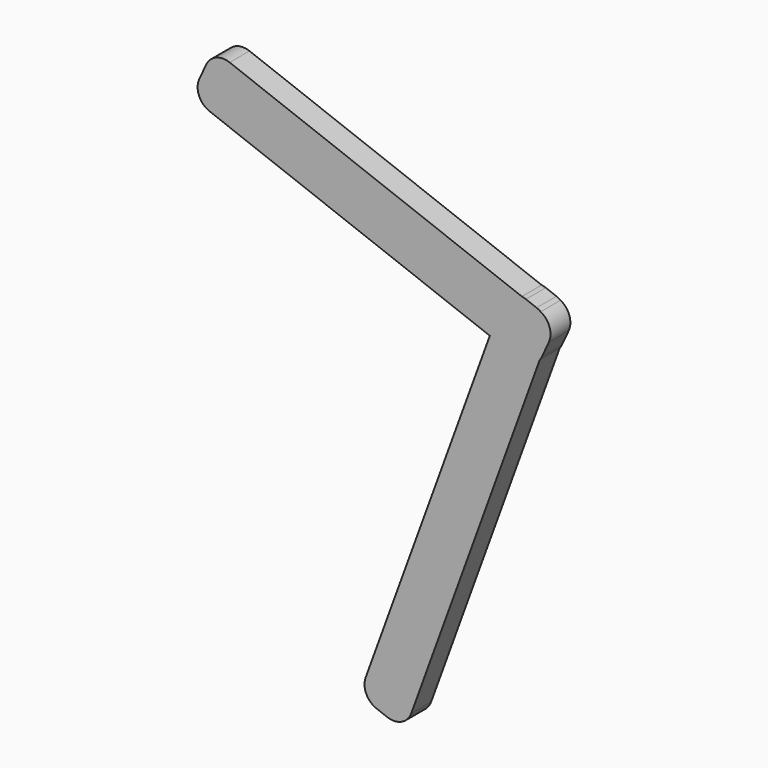
from build123d import *

# Parameters (mm, degrees)
PAD005_DEPTH = 4
FILLET004_R  = 3
PAD006_DEPTH = 4
FILLET_R     = 3


with BuildPart() as fillet004:
    # Sketch010 → Pad005 (new body)
    with BuildSketch(Plane.XZ.offset(9)):
        Polygon((36.01236, 27.938416), (43.326587, 25.132718), (19.335825, -40.794858), (12.021599, -37.98916), align=None)
    extrude(amount=PAD005_DEPTH)

    # Fillet004
    fillet004_edges = [fillet004.edges().sort_by_distance(p)[0] for p in [
        (36.01236, -11, 27.938416),
        (43.326587, -11, 25.132718),
        (19.335825, -11, -40.794858),
        (12.021599, -11, -37.98916),
    ]]
    fillet(fillet004_edges, radius=FILLET004_R)


with BuildPart() as fusion009:
    # Sketch009 → Pad006 (new body)
    with BuildSketch(Plane.XZ.offset(9)):
        Polygon((-15.121457, 38.064293), (-11.496716, 45.897909), (43.898232, 24.848332), (40.273491, 17.014716), align=None)
    extrude(amount=PAD006_DEPTH)

    # Fillet
    fillet_edges = [fusion009.edges().sort_by_distance(p)[0] for p in [
        (-15.121457, -11, 38.064293),
        (-11.496716, -11, 45.897909),
        (43.898232, -11, 24.848332),
        (40.273491, -11, 17.014716),
    ]]
    fillet(fillet_edges, radius=FILLET_R)

    # Fusion009: union Fillet004
    add(fillet004.part)


solid = fusion009.part
